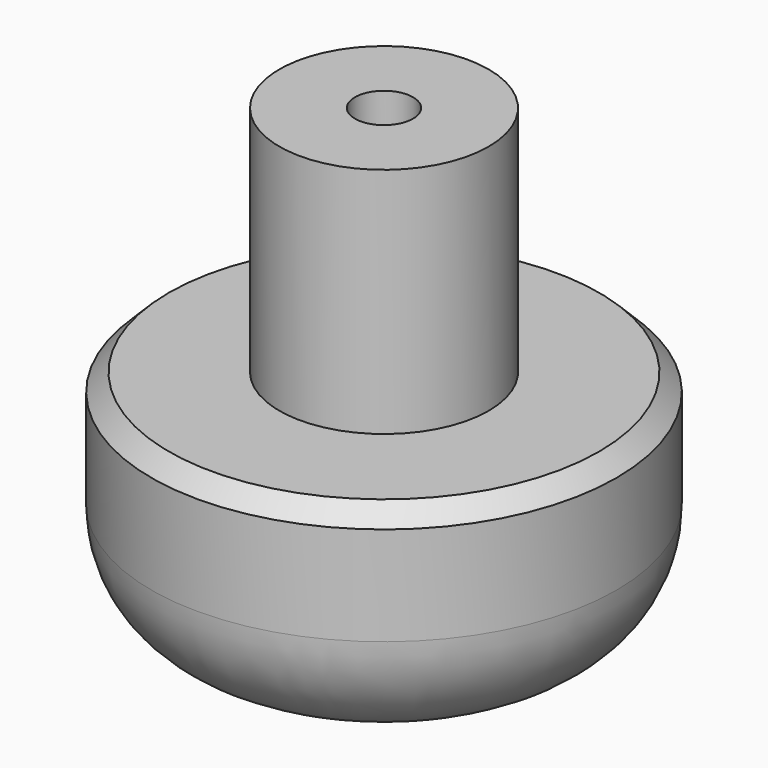
from build123d import *

# Parameters (mm, degrees)
F0_R     = 20
F1_DEPTH = 20
F2_R     = 10
F3_R     = 9
F4_DEPTH = 20
F5_R     = 2.5
F6_DEPTH = 20
F7_SIZE  = 1.5


with BuildPart() as f1:
    # F0 (on Top) → F1 (new body)
    with BuildSketch(Plane.XY):
        Circle(F0_R)
    extrude(amount=F1_DEPTH)

    # F2
    f2_edges = [f1.edges().sort_by_distance(p)[0] for p in [
        (-20, 0, 0),
    ]]
    fillet(f2_edges, radius=F2_R)

    # F3 (on face) → F4 (join)
    with BuildSketch(Plane.XY.offset(20)):
        Circle(F3_R)
    extrude(amount=F4_DEPTH)

    # F5 (on face) → F6 (cut)
    with BuildSketch(Plane.XY.offset(40)):
        Circle(F5_R)
    extrude(amount=-F6_DEPTH, mode=Mode.SUBTRACT)

    # F7
    f7_edges = [f1.edges().sort_by_distance(p)[0] for p in [
        (-20, 0, 20),
    ]]
    chamfer(f7_edges, length=F7_SIZE)


solid = f1.part
